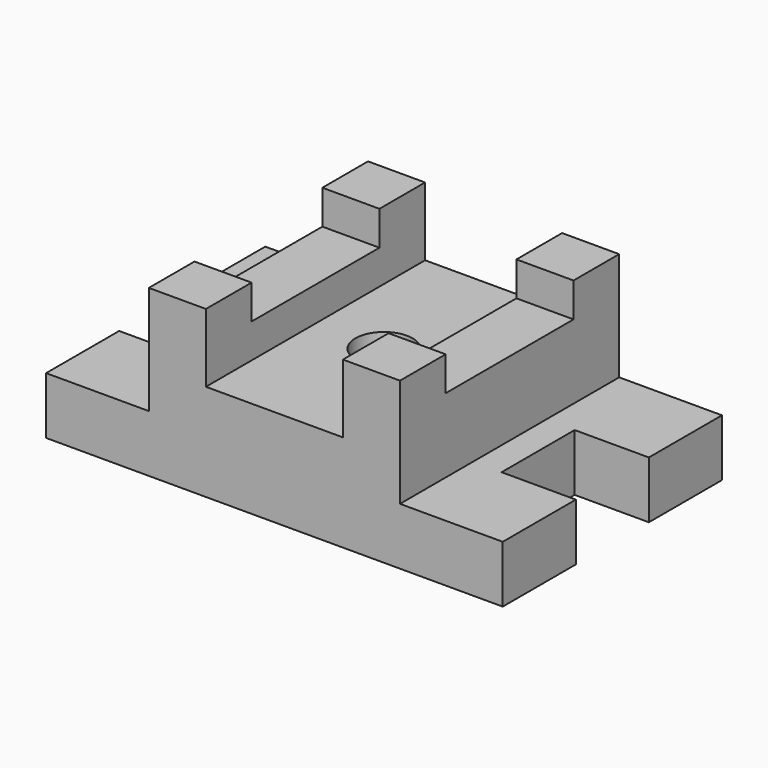
from build123d import *

# Parameters (mm, degrees)
F0_R      = 15.875
F1_DEPTH  = 31.75
F2_W      = 139.7
F2_H      = 152.4
F2_R      = 15.875
F3_DEPTH  = 22.225
F4_W      = 31.75
F4_H      = 152.4
F5_DEPTH  = 19.05
F6_DEPTH  = 19.05
F7_W      = 31.75
F7_H      = 31.75
F8_DEPTH  = 19.05
F9_DEPTH  = 19.05
F10_W     = 31.75
F10_H     = 31.75
F11_DEPTH = 19.05
F12_DEPTH = 19.05


with BuildPart() as f1:
    # F0 (on Top) → F1 (new body)
    with BuildSketch(Plane.XY):
        Polygon((-254, 0), (0, 0), (0, 50.8), (-41.275, 50.8), (-41.275, 101.6), (0, 101.6), (0, 152.4), (-254, 152.4), (-254, 101.6), (-212.725, 101.6), (-212.725, 50.8), (-254, 50.8), align=None)
        with Locations((-127, 76.2)):
            Circle(F0_R, mode=Mode.SUBTRACT)
        Polygon((-254, 0), (0, 0), (0, 50.8), (-41.275, 50.8), (-41.275, 101.6), (0, 101.6), (0, 152.4), (-254, 152.4), (-254, 101.6), (-212.725, 101.6), (-212.725, 50.8), (-254, 50.8), align=None)
        with Locations((-127, 76.2)):
            Circle(F0_R, mode=Mode.SUBTRACT)
    extrude(amount=F1_DEPTH)

    # F2 (on face) → F3 (join)
    with BuildSketch(Plane.XY.offset(31.75)):
        with Locations((-127, 76.2)):
            Rectangle(F2_W, F2_H)
        with Locations((-127, 76.2)):
            Circle(F2_R, mode=Mode.SUBTRACT)
    extrude(amount=F3_DEPTH)

    # F4 (on face) → F5 (join)
    with BuildSketch(Plane.XY.offset(53.975)):
        with Locations((-180.975, 76.2)):
            Rectangle(F4_W, F4_H)
    extrude(amount=F5_DEPTH)

    # F4 (on face) → F6 (join)
    with BuildSketch(Plane.XY.offset(53.975)):
        with Locations((-73.025, 76.2)):
            Rectangle(F4_W, F4_H)
    extrude(amount=F6_DEPTH)

    # F7 (on face) → F8 (join)
    with BuildSketch(Plane.XY.offset(73.025)):
        with Locations((-180.975, 136.525)):
            Rectangle(F7_W, F7_H)
    extrude(amount=F8_DEPTH)

    # F7 (on face) → F9 (join)
    with BuildSketch(Plane.XY.offset(73.025)):
        with Locations((-180.975, 15.875)):
            Rectangle(F7_W, F7_H)
    extrude(amount=F9_DEPTH)

    # F10 (on face) → F11 (join)
    with BuildSketch(Plane.XY.offset(73.025)):
        with Locations((-73.025, 136.525)):
            Rectangle(F10_W, F10_H)
    extrude(amount=F11_DEPTH)

    # F10 (on face) → F12 (join)
    with BuildSketch(Plane.XY.offset(73.025)):
        with Locations((-73.025, 15.875)):
            Rectangle(F10_W, F10_H)
    extrude(amount=F12_DEPTH)


solid = f1.part
